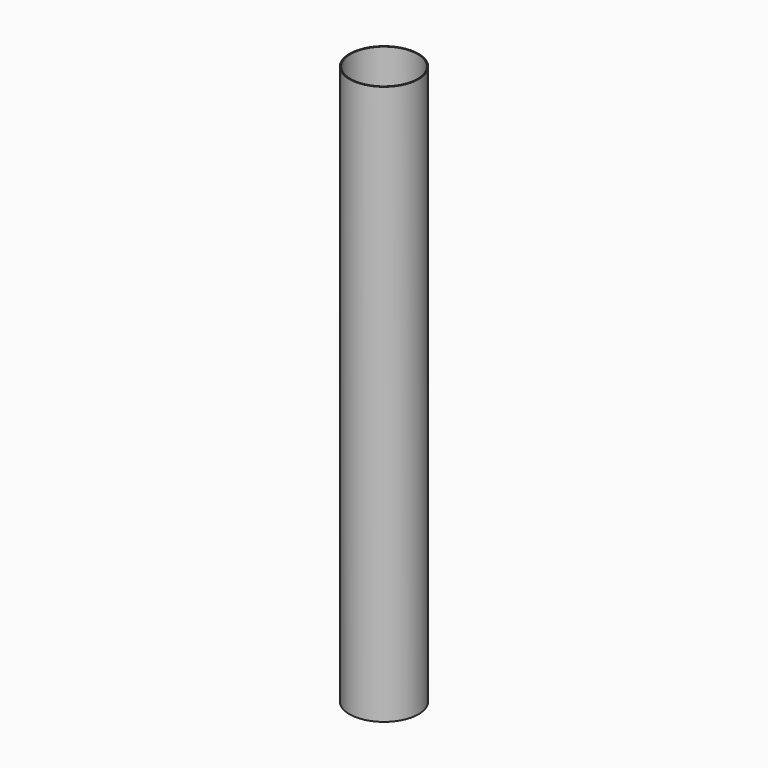
from build123d import *

# Parameters (mm, degrees)
F0_R     = 2.78
F1_DEPTH = 45
F2_R     = 2.701299
F3_DEPTH = 44.35984
F4_R     = 1.253885
F5_DEPTH = 0.25
F6_R     = 0.107264


with BuildPart() as f1:
    # F0 (on Top) → F1 (new body)
    with BuildSketch(Plane.XY):
        Circle(F0_R)
    extrude(amount=F1_DEPTH)

    # F2 (on face) → F3 (cut)
    with BuildSketch(Plane.XY.offset(45)):
        Circle(F2_R)
    extrude(amount=-F3_DEPTH, mode=Mode.SUBTRACT)

    # F4 (on face) → F5 (cut)
    with BuildSketch(Plane(origin=(0, 0, 0), x_dir=(1, 0, 0), z_dir=(0, 0, -1))):
        Circle(F4_R)
    extrude(amount=-F5_DEPTH, mode=Mode.SUBTRACT)

    # F6
    f6_edges = [f1.edges().sort_by_distance(p)[0] for p in [
        (-1.253885, 0, 0.25),
    ]]
    fillet(f6_edges, radius=F6_R)


solid = f1.part
